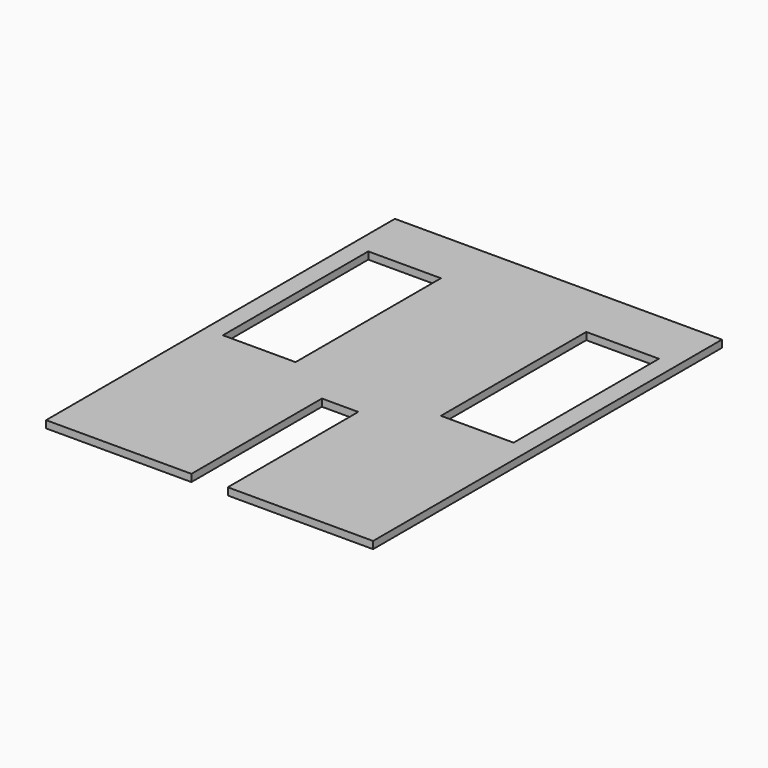
from build123d import *

# Parameters (mm, degrees)
F0_W     = 25.4
F0_H     = 63.5
F1_DEPTH = 2.54


with BuildPart() as f1:
    # F0 (on Top) → F1 (new body)
    with BuildSketch(Plane.XY):
        Polygon((55.001232, 79.477459), (-59.298768, 79.477459), (-59.298768, 50.732639), (-59.298768, -15.91026), (-59.298768, -72.922541), (-52.948768, -72.922541), (-27.548768, -72.922541), (-21.198768, -72.922541), (-8.498768, -72.922541), (-8.498768, -15.91026), (4.201232, -15.91026), (4.201232, -72.922541), (16.901232, -72.922541), (48.651232, -72.922541), (55.001232, -72.922541), (55.001232, -15.91026), (55.001232, 59.897663), align=None)
        Polygon((-52.948768, 50.732639), (-52.948768, 59.897663), (-27.548768, 59.897663), (-27.548768, 50.732639), (-27.548768, -3.602337), (-52.948768, -3.602337), align=None, mode=Mode.SUBTRACT)
        with Locations((35.951232, 28.147663)):
            Rectangle(F0_W, F0_H, mode=Mode.SUBTRACT)
    extrude(amount=F1_DEPTH)


solid = f1.part
